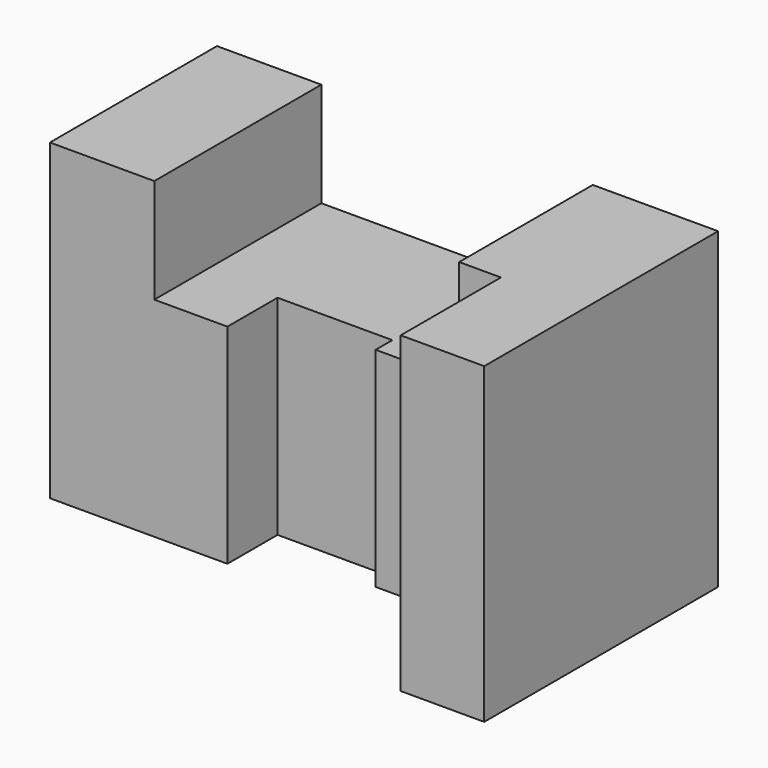
from build123d import *

# Parameters (mm, degrees)
F0_W     = 25
F0_H     = 50
F1_DEPTH = 25
F2_W     = 25
F2_H     = 50
F3_DEPTH = 25


with BuildPart() as f1:
    # F0 (on Top) → F1 (new body, symmetric)
    with BuildSketch(Plane.XY):
        with Locations((12.5, 25)):
            Rectangle(F0_W, F0_H)
        Polygon((25, 50), (25, 0), (42.5, 0), (42.5, 15), (70, 15), (70, 10), (100, 10), (100, -20), (120, -20), (120, 50), align=None)
    extrude(amount=F1_DEPTH, both=True)

    # F2 (on face) → F3 (join)
    with BuildSketch(Plane.XY.offset(25)):
        with Locations((12.5, 25)):
            Rectangle(F2_W, F2_H)
        Polygon((100, -20), (120, -20), (120, 50), (90, 50), (90, 10), (100, 10), align=None)
    extrude(amount=F3_DEPTH)


solid = f1.part
